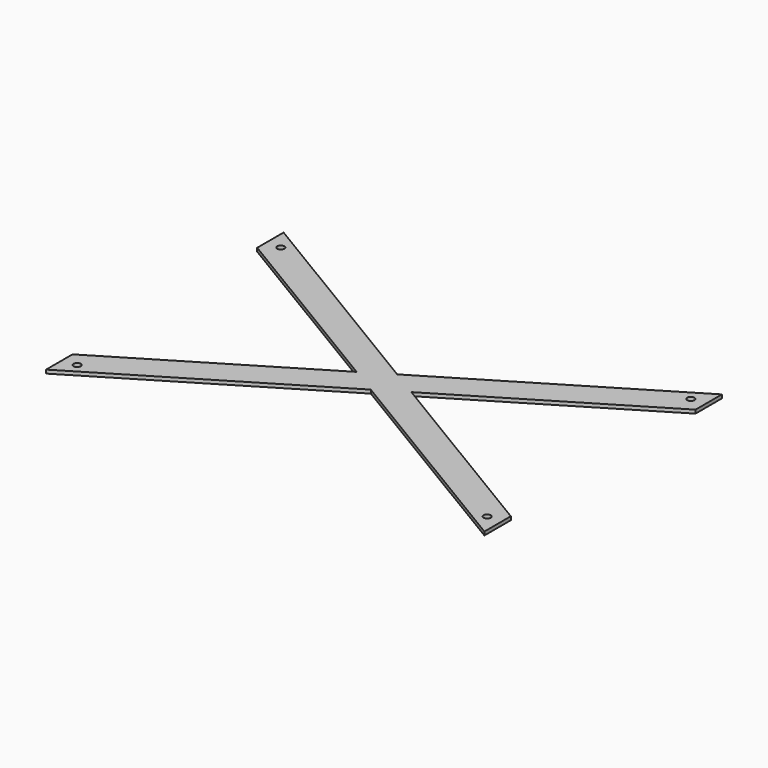
from build123d import *

# Parameters (mm, degrees)
F0_R     = 3.175
F1_DEPTH = 3.175


with BuildPart() as f1:
    # F0 (on Top) → F1 (new body)
    with BuildSketch(Plane.XY):
        Polygon((140.5679399306, 1060.2679701805), (115.9471851349, 1045.4435404041), (312.7971851349, 926.9179701805), (312.7971851349, 956.5668297334), align=None)
        with Locations((300.0971851349, 945.9679701805)):
            Circle(F0_R, mode=Mode.SUBTRACT)
        Polygon((115.9471851349, 1075.092399957), (140.5679399306, 1060.2679701805), (312.7971851349, 1163.9691106276), (312.7971851349, 1193.6179701805), align=None)
        with Locations((300.0971851349, 1174.5679701805)):
            Circle(F0_R, mode=Mode.SUBTRACT)
        Polygon((-80.9028148651, 956.5668297334), (-80.9028148651, 926.9179701805), (115.9471851349, 1045.4435404041), (91.3264303392, 1060.2679701805), align=None)
        with Locations((-68.2028148651, 945.9679701805)):
            Circle(F0_R, mode=Mode.SUBTRACT)
        Polygon((-80.9028148651, 1193.6179701805), (-80.9028148651, 1163.9691106276), (91.3264303392, 1060.2679701805), (115.9471851349, 1075.092399957), align=None)
        with Locations((-68.2028148651, 1174.5679701805)):
            Circle(F0_R, mode=Mode.SUBTRACT)
        Polygon((91.3264303392, 1060.2679701805), (115.9471851349, 1045.4435404041), (140.5679399306, 1060.2679701805), (115.9471851349, 1075.092399957), align=None)
    extrude(amount=F1_DEPTH)


solid = f1.part
